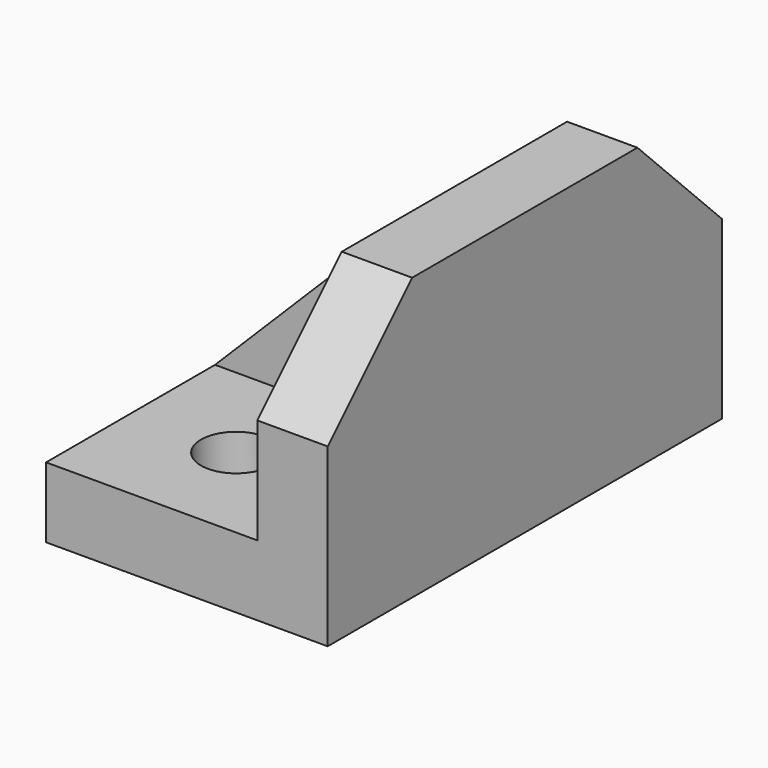
from build123d import *

# Parameters (mm, degrees)
F0_W      = 76.2
F0_H      = 25.4
F1_DEPTH  = 101.6
F0_H_2    = 76.2
F2_DEPTH  = 25.4
F4_DEPTH  = 101.601
F7_DEPTH  = 25.401
F9_R      = 12.7
F8_R      = 12.7
F10_DEPTH = 25.401


with BuildPart() as f1:
    # F0 (on Top) → F1 (new body)
    with BuildSketch(Plane.XY):
        Polygon((68.37053, 61.854359), (42.97053, 61.854359), (42.97053, -14.345641), (42.97053, -39.745641), (42.97053, -115.945641), (68.37053, -115.945641), align=None)
        with Locations((4.87053, -27.045641)):
            Rectangle(F0_W, F0_H)
    extrude(amount=F1_DEPTH)

    # F0 (on Top) → F2 (join)
    with BuildSketch(Plane.XY):
        with Locations((4.87053, 23.754359)):
            Rectangle(F0_W, F0_H_2)
        with Locations((4.87053, -77.845641)):
            Rectangle(F0_W, F0_H_2)
    extrude(amount=F2_DEPTH)

    # F3 (on face) → F4 (cut, through all)
    with BuildSketch(Plane.XZ.offset(39.745641)):
        Polygon((-33.22947, 101.6), (-33.22947, 25.4), (42.97053, 101.6), align=None)
    extrude(amount=-F4_DEPTH, mode=Mode.SUBTRACT)

    # F6 (on face) + F5 (on face) → F7 (cut, through all)
    with BuildSketch(Plane(origin=(42.97053, 0, 0), x_dir=(0, -1, 0), z_dir=(-1, 0, 0))):
        Polygon((-61.854359, 63.5), (-23.754359, 101.6), (-61.854359, 101.6), align=None)
    with BuildSketch(Plane(origin=(42.97053, 0, 0), x_dir=(0, -1, 0), z_dir=(-1, 0, 0))):
        Polygon((115.945641, 101.6), (77.845641, 101.6), (115.945641, 63.5), align=None)
    extrude(amount=-F7_DEPTH, mode=Mode.SUBTRACT)

    # F9 (on face) + F8 (on face) → F10 (cut, through all)
    with BuildSketch(Plane.XY.offset(25.4)):
        with Locations((4.87053, 23.754359)):
            Circle(F9_R)
    with BuildSketch(Plane.XY.offset(25.4)):
        with Locations((4.87053, -77.845641)):
            Circle(F8_R)
    extrude(amount=-F10_DEPTH, mode=Mode.SUBTRACT)


solid = f1.part
